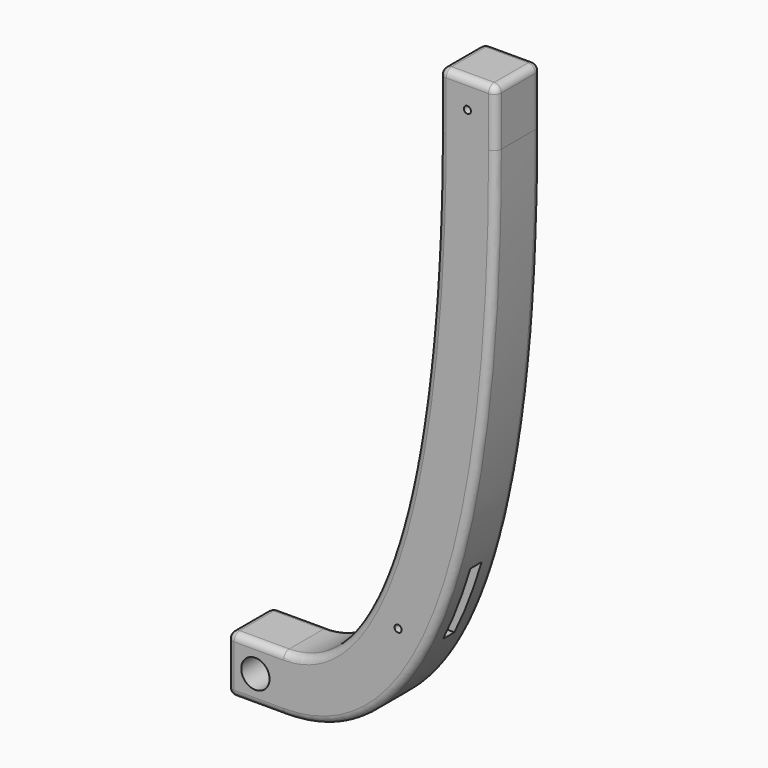
from build123d import *

# Parameters (mm, degrees)
F0_R     = 2
F0_R_2   = 0.5
F1_DEPTH = 8
F2_R     = 1
F3_W     = 2
F3_H     = 10
F4_DEPTH = 25


with BuildPart() as f1:
    # F0 (on Front) → F1 (new body)
    with BuildSketch(Plane.XZ):
        with BuildLine():
            Line((-22, -15.923589), (-30, -15.923589))
            Line((-30, -15.923589), (-30, -23.923589))
            Line((-30, -23.923589), (-22, -23.923589))
            add(Edge.make_bspline(
                [(-22, -23.923589), (-3.5, -23.923589), (8, 0.076411), (8, 56.076411)],
                knots=[0, 0, 0, 0, 85.440037, 85.440037, 85.440037, 85.440037], degree=3))
            Line((8, 56.076411), (8, 64.076411))
            Line((8, 64.076411), (0, 64.076411))
            Line((0, 64.076411), (0, 56.076411))
            add(Edge.make_bspline(
                [(-22, -15.923589), (-6, -15.923589), (0, 20.076411), (0, 56.076411)],
                knots=[0, 0, 0, 0, 75.286121, 75.286121, 75.286121, 75.286121], degree=3))
        make_face()
        with Locations((-26, -19.923589)):
            Circle(F0_R, mode=Mode.SUBTRACT)
        with Locations((-5.805514, -7.727215)):
            Circle(F0_R_2, mode=Mode.SUBTRACT)
        with Locations((4, 60.076411)):
            Circle(F0_R_2, mode=Mode.SUBTRACT)
    extrude(amount=F1_DEPTH)

    # F2
    f2_edges = [f1.edges().sort_by_distance(p)[0] for p in [
        (4.219234, -8, 9.887274),
        (4.219234, 0, 9.887274),
        (-2.955442, -8, 16.205486),
        (-2.955442, 0, 16.205486),
        (0, 0, 60.076411),
        (4, 0, 64.076411),
        (8, -4, 64.076411),
        (0, -4, 64.076411),
        (4, -8, 64.076411),
        (-30, -4, -15.923589),
        (-30, -4, -23.923589),
        (-30, 0, -19.923589),
        (-30, -8, -19.923589),
    ]]
    fillet(f2_edges, radius=F2_R)

    # F3 (on face) → F4 (cut, symmetric)
    with BuildSketch(Plane(origin=(0, 0, 0), x_dir=(0, -1, 0), z_dir=(-1, 0, 0))):
        with Locations((4, -3.923589)):
            Rectangle(F3_W, F3_H)
    extrude(amount=F4_DEPTH, both=True, mode=Mode.SUBTRACT)


solid = f1.part
